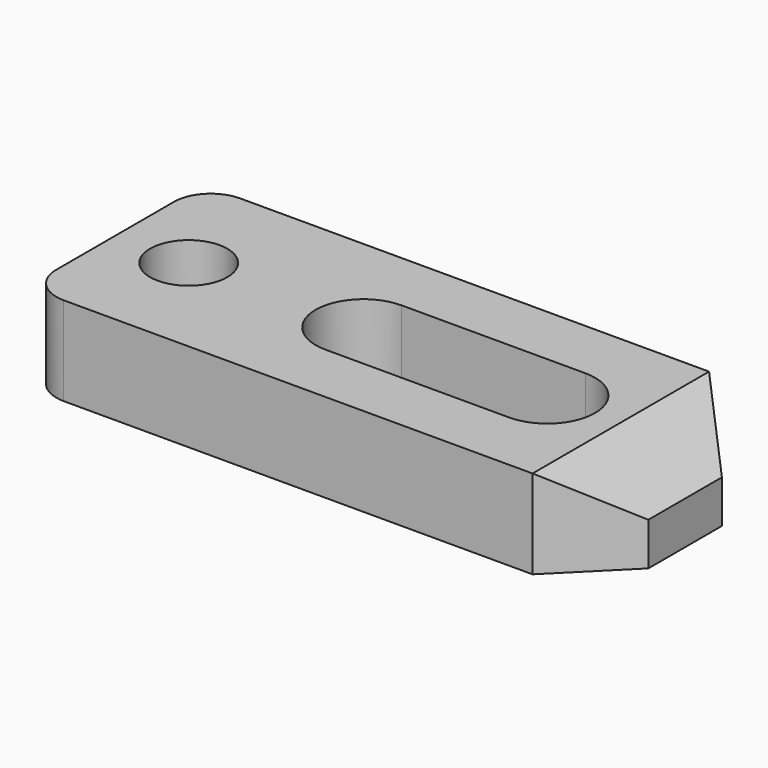
from build123d import *

# Parameters (mm, degrees)
F0_R     = 2.1
F1_DEPTH = 4.83
F2_SIZE2 = 2.5
F2_SIZE  = 3.5
F3_R     = 2
F4_R     = 2


with BuildPart() as f1:
    # F0 (on Top) → F1 (new body)
    with BuildSketch(Plane.XY):
        Polygon((-12.5, -6), (9, -6), (12.5, -2.5), (12.5, 2.5), (9, 6), (-12.5, 6), (-18.5, 6), (-18.5, -6), align=None)
        with Locations((-14.5, 0)):
            Circle(F0_R, mode=Mode.SUBTRACT)
        with BuildLine():
            Line((5, -2.6), (-5, -2.6))
            ThreePointArc((-5, -2.6), (-7.6, 0), (-5, 2.6))
            Line((-5, 2.6), (5, 2.6))
            ThreePointArc((5, 2.6), (7.6, 0), (5, -2.6))
        make_face(mode=Mode.SUBTRACT)
    extrude(amount=F1_DEPTH)

    # F2
    f2_edges = [f1.edges().sort_by_distance(p)[0] for p in [
        (12.5, 0, 4.83),
    ]]
    f2_side = f1.faces().sort_by_distance((-4.75, -5.667585, 4.83))[0]
    chamfer(f2_edges, length=F2_SIZE, length2=F2_SIZE2, reference=f2_side)

    # F3
    f3_edges = [f1.edges().sort_by_distance(p)[0] for p in [
        (-18.5, -6, 2.415),
    ]]
    fillet(f3_edges, radius=F3_R)

    # F4
    f4_edges = [f1.edges().sort_by_distance(p)[0] for p in [
        (-18.5, 6, 2.415),
    ]]
    fillet(f4_edges, radius=F4_R)


solid = f1.part
